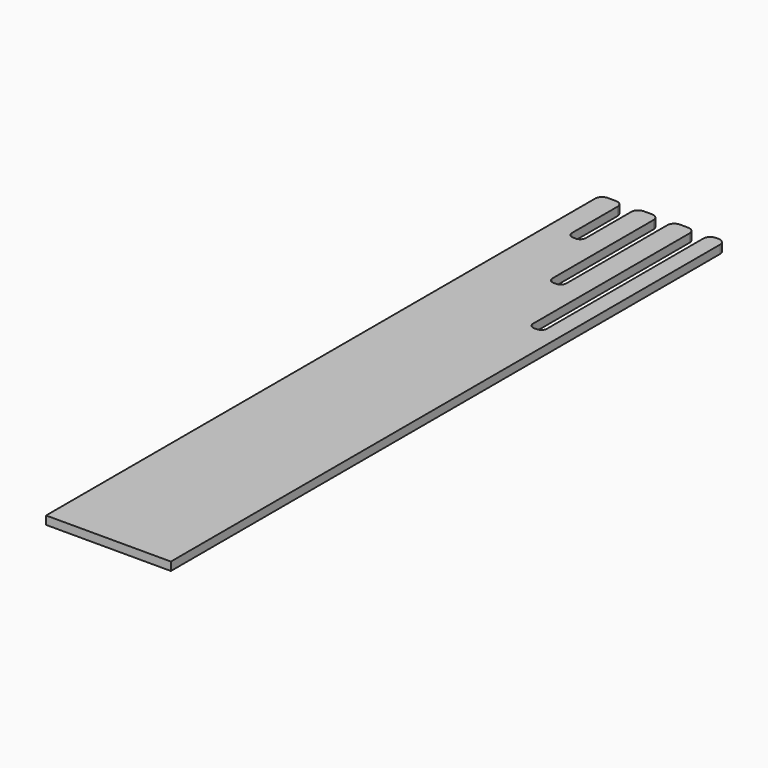
from build123d import *

# Parameters (mm, degrees)
F1_DEPTH = 0.762
F2_R     = 0.508
F3_R     = 0.635


with BuildPart() as f1:
    # F0 (on Top) → F1 (new body)
    with BuildSketch(Plane.XY):
        Polygon((0, 63.5), (0, 0), (11.43, 0), (11.43, 63.5), (9.906, 63.5), (9.906, 44.45), (8.636, 44.45), (8.636, 63.5), (6.604, 63.5), (6.604, 50.8), (5.334, 50.8), (5.334, 63.5), (3.302, 63.5), (3.302, 57.15), (2.032, 57.15), (2.032, 63.5), align=None)
    extrude(amount=F1_DEPTH)

    # F2
    f2_edges = [f1.edges().sort_by_distance(p)[0] for p in [
        (2.032, 57.15, 0.381),
        (3.302, 57.15, 0.381),
        (5.334, 50.8, 0.381),
        (6.604, 50.8, 0.381),
        (9.906, 44.45, 0.381),
        (8.636, 44.45, 0.381),
    ]]
    fillet(f2_edges, radius=F2_R)

    # F3
    f3_edges = [f1.edges().sort_by_distance(p)[0] for p in [
        (0, 63.5, 0.381),
        (2.032, 63.5, 0.381),
        (3.302, 63.5, 0.381),
        (5.334, 63.5, 0.381),
        (6.604, 63.5, 0.381),
        (8.636, 63.5, 0.381),
        (9.906, 63.5, 0.381),
        (11.43, 63.5, 0.381),
    ]]
    fillet(f3_edges, radius=F3_R)


solid = f1.part
